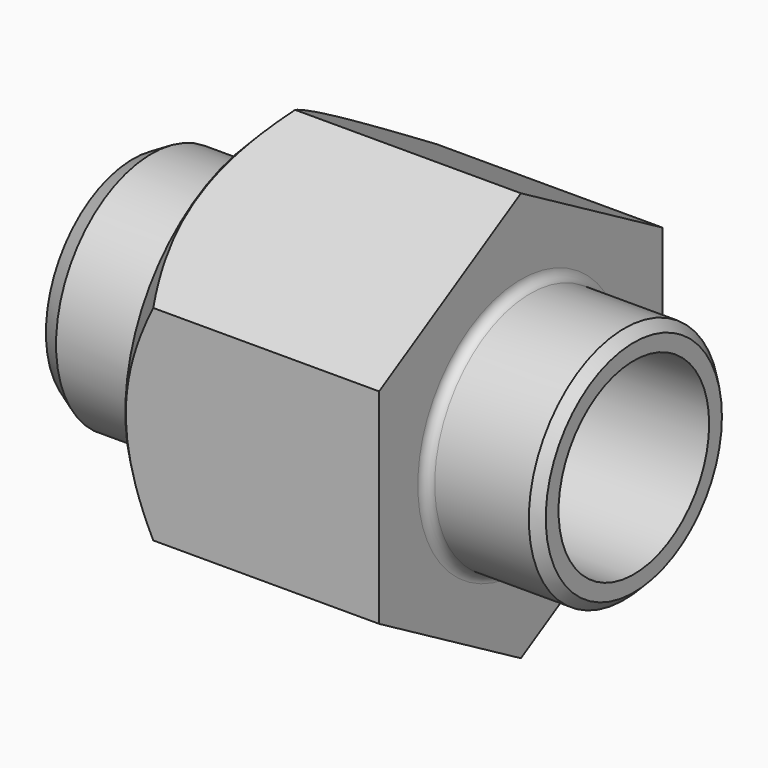
from build123d import *

# Parameters (mm, degrees)
F0_R          = 6.35
F1_DEPTH      = 6.8
F1_DEPTH_BACK = 6.8
F2_DEPTH      = 13.82
F2_DEPTH_BACK = 12.8
F5_R          = 5
F6_DEPTH      = 15
F7_SIZE2      = 0.5773502692
F7_SIZE       = 1
F8_SIZE       = 0.5
F9_R          = 0.5


with BuildPart() as f1:
    # F0 (on Right) → F1 (new body, two sides)
    with BuildSketch(Plane.YZ) as f1_sk:
        Polygon((9.4180262662, 5.4375), (0, 10.875), (-9.4180262662, 5.4375), (-9.4180262662, -5.4375), (0, -10.875), (9.4180262662, -5.4375), align=None)
        Circle(F0_R, mode=Mode.SUBTRACT)
        Circle(F0_R)
    extrude(amount=F1_DEPTH)
    extrude(f1_sk.sketch, amount=-F1_DEPTH_BACK)

    # F0 (on Right) → F2 (join, two sides)
    with BuildSketch(Plane.YZ) as f2_sk:
        Circle(F0_R)
    extrude(amount=-F2_DEPTH)
    extrude(f2_sk.sketch, amount=F2_DEPTH_BACK)

    # F3 (on Front) → F4 (revolve, cut)
    with BuildSketch(Plane.XZ):
        Polygon((-6.8, 9.275), (-5.2, 10.875), (-6.8, 10.875), align=None)
    revolve(axis=Axis((0, 0, 0), (1, 0, 0)), mode=Mode.SUBTRACT)

    # F5 (on Right) → F6 (cut, symmetric)
    with BuildSketch(Plane.YZ):
        Circle(F5_R)
    extrude(amount=F6_DEPTH, both=True, mode=Mode.SUBTRACT)

    # F7
    f7_edges = [f1.edges().sort_by_distance(p)[0] for p in [
        (-13.82, -6.35, 0),
    ]]
    f7_side = f1.faces().sort_by_distance((-10.31, -6.35, 0))[0]
    chamfer(f7_edges, length=F7_SIZE, length2=F7_SIZE2, reference=f7_side)

    # F8
    f8_edges = [f1.edges().sort_by_distance(p)[0] for p in [
        (12.8, -6.35, 0),
    ]]
    chamfer(f8_edges, length=F8_SIZE)

    # F9
    f9_edges = [f1.edges().sort_by_distance(p)[0] for p in [
        (6.8, -6.35, 0),
        (-6.8, -6.35, 0),
    ]]
    fillet(f9_edges, radius=F9_R)


solid = f1.part
